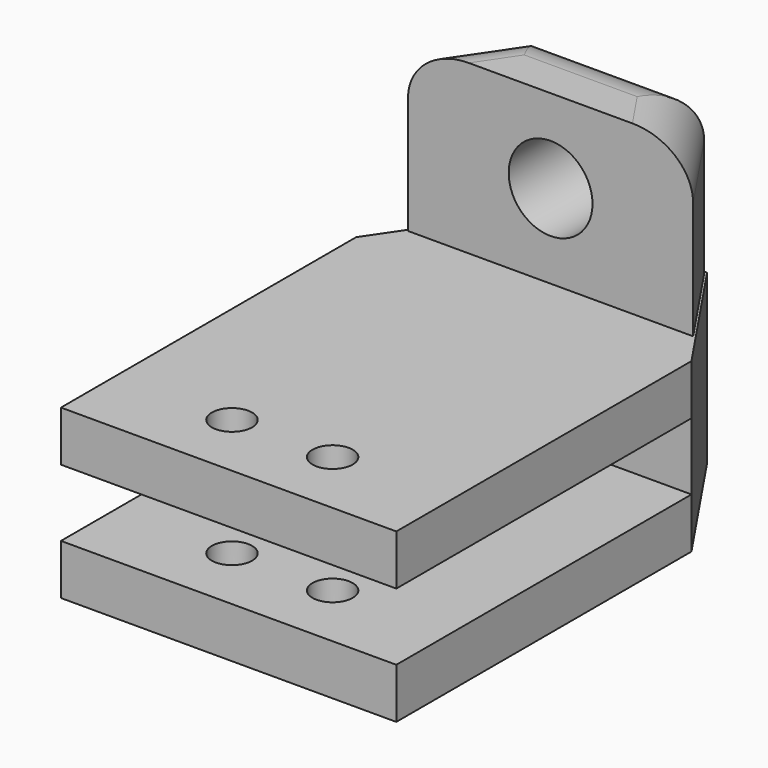
from build123d import *

# Parameters (mm, degrees)
SKETCH_R        = 1.2
PAD_DEPTH       = 3
PAD001_DEPTH    = 10
FILLET_R        = 3
SKETCH002_R     = 2.5
POCKET_DEPTH    = 6
SKETCH003_R     = 1.2
PAD002_DEPTH    = 7
SKETCH004_W     = 20
SKETCH004_H     = 4
POCKET001_DEPTH = 22


with BuildPart() as part:
    # Sketch → Pad (new body)
    with BuildSketch(Plane.XY):
        Polygon((-20, 22), (-20, 0), (0, 0), (0, 22), (-5, 29.412805), (-15, 29.412805), align=None)
        with Locations((-7, 4)):
            Circle(SKETCH_R, mode=Mode.SUBTRACT)
        with Locations((-13, 4)):
            Circle(SKETCH_R, mode=Mode.SUBTRACT)
    extrude(amount=PAD_DEPTH)

    # Sketch001 (on Face10 of Pad) → Pad001 (join)
    with BuildSketch(Plane.XY.offset(3)):
        Polygon((-10, 24), (-1.5, 24), (-5.038419, 29.245922), (-14.961581, 29.245922), (-18.5, 24), align=None)
    extrude(amount=PAD001_DEPTH)

    # Fillet
    fillet_edges = [part.edges().sort_by_distance(p)[0] for p in [
        (-3.26921, 26.622961, 13),
        (-10, 29.245922, 13),
        (-16.73079, 26.622961, 13),
    ]]
    fillet(fillet_edges, radius=FILLET_R)

    # Sketch002 (on Face1 of Fillet) → Pocket (cut)
    with BuildSketch(Plane.XZ.offset(-24)):
        with Locations((-10, 8)):
            Circle(SKETCH002_R)
    extrude(amount=-POCKET_DEPTH, mode=Mode.SUBTRACT)

    # Sketch003 (on Face20 of Pocket) → Pad002 (join)
    with BuildSketch(Plane(origin=(0, 0, 0), x_dir=(1, 0, 0), z_dir=(0, 0, -1))):
        Polygon((0, 0), (-20, 0), (-20, -22), (-15, -29.412805), (-5, -29.412805), (0, -22), align=None)
        with Locations((-13, -4)):
            Circle(SKETCH003_R, mode=Mode.SUBTRACT)
        with Locations((-7, -4)):
            Circle(SKETCH003_R, mode=Mode.SUBTRACT)
    extrude(amount=PAD002_DEPTH)

    # Sketch004 (on Face22 of Pad002) → Pocket001 (cut)
    with BuildSketch(Plane.XZ):
        with Locations((-10, -2)):
            Rectangle(SKETCH004_W, SKETCH004_H)
    extrude(amount=-POCKET001_DEPTH, mode=Mode.SUBTRACT)


solid = part.part
